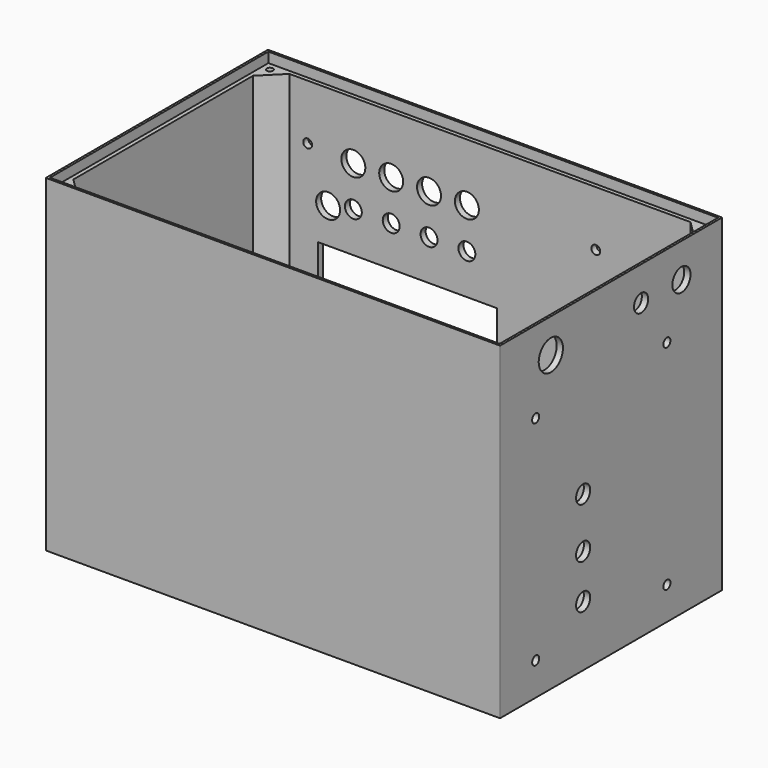
from build123d import *

# Parameters (mm, degrees)
SKETCH_W        = 180
SKETCH_H        = 110
PAD_DEPTH       = 130
THICKNESS_T     = -2.5
CHAMFER_SIZE    = 8
SKETCH001_R     = 1.25
HOLE001_DEPTH   = 16
HOLE001_TIPS_R  = 1.25
HOLE_DEPTH      = 15
HOLE_TIPS_R     = 1.25
SKETCH002_W     = 178.2
SKETCH002_H     = 108.2
POCKET_DEPTH    = 4
FILLET_R        = 0.15
POCKET001_DEPTH = 1
SKETCH004_R     = 1
POCKET002_DEPTH = 3
SKETCH005_R     = 4.5
SKETCH005_R_2   = 3.5
SKETCH005_R_3   = 6
POCKET003_DEPTH = 5
SKETCH007_R     = 1.75
SKETCH007_R_2   = 3.5
POCKET004_DEPTH = 5
SKETCH009_R     = 1.75
SKETCH009_R_2   = 4.75
SKETCH009_R_3   = 3.35
SKETCH009_W     = 71
SKETCH009_H     = 44
POCKET005_DEPTH = 5


with BuildPart() as part:
    # Sketch → Pad (new body)
    with BuildSketch(Plane.XY):
        Rectangle(SKETCH_W, SKETCH_H)
    extrude(amount=PAD_DEPTH)

    # Thickness
    thickness_openings = [part.faces().sort_by_distance(p)[0] for p in [
        (0, 0, 130),
    ]]
    offset(amount=THICKNESS_T, openings=thickness_openings, kind=Kind.INTERSECTION)

    # Chamfer
    chamfer_edges = [part.edges().sort_by_distance(p)[0] for p in [
        (-87.5, 52.5, 66.25),
        (-87.5, -52.5, 66.25),
        (87.5, 52.5, 66.25),
        (87.5, -52.5, 66.25),
    ]]
    chamfer(chamfer_edges, length=CHAMFER_SIZE)

    # Sketch001 (on Face1 of Chamfer) → Hole001 (cut)
    with BuildSketch(Plane.XY.offset(130)):
        with Locations((-86, 51)):
            Circle(SKETCH001_R)
        with Locations((86, 51)):
            Circle(SKETCH001_R)
        with Locations((86, -51)):
            Circle(SKETCH001_R)
        with Locations((-86, -51)):
            Circle(SKETCH001_R)
    extrude(amount=-HOLE001_DEPTH, mode=Mode.SUBTRACT)

    # Hole001 tips → Hole001 tip 1 section 0
    with BuildSketch(Plane.XY.offset(114), mode=Mode.PRIVATE) as hole001_tip_1_s0:
        with Locations((-86, 51)):
            Circle(HOLE001_TIPS_R)
    loft([hole001_tip_1_s0.sketch, Vertex(-86, 51, 113.248924)], mode=Mode.SUBTRACT)

    # Hole001 tips → Hole001 tip 2 section 0
    with BuildSketch(Plane.XY.offset(114), mode=Mode.PRIVATE) as hole001_tip_2_s0:
        with Locations((86, 51)):
            Circle(HOLE001_TIPS_R)
    loft([hole001_tip_2_s0.sketch, Vertex(86, 51, 113.248924)], mode=Mode.SUBTRACT)

    # Hole001 tips → Hole001 tip 3 section 0
    with BuildSketch(Plane.XY.offset(114), mode=Mode.PRIVATE) as hole001_tip_3_s0:
        with Locations((86, -51)):
            Circle(HOLE001_TIPS_R)
    loft([hole001_tip_3_s0.sketch, Vertex(86, -51, 113.248924)], mode=Mode.SUBTRACT)

    # Hole001 tips → Hole001 tip 4 section 0
    with BuildSketch(Plane.XY.offset(114), mode=Mode.PRIVATE) as hole001_tip_4_s0:
        with Locations((-86, -51)):
            Circle(HOLE001_TIPS_R)
    loft([hole001_tip_4_s0.sketch, Vertex(-86, -51, 113.248924)], mode=Mode.SUBTRACT)

    # Sketch001 (on Face1 of Chamfer) → Hole (cut)
    with BuildSketch(Plane.XY.offset(130)):
        with Locations((-86, 51)):
            Circle(SKETCH001_R)
        with Locations((86, 51)):
            Circle(SKETCH001_R)
        with Locations((86, -51)):
            Circle(SKETCH001_R)
        with Locations((-86, -51)):
            Circle(SKETCH001_R)
    extrude(amount=-HOLE_DEPTH, mode=Mode.SUBTRACT)

    # Hole tips → Hole tip 1 section 0
    with BuildSketch(Plane.XY.offset(115), mode=Mode.PRIVATE) as hole_tip_1_s0:
        with Locations((-86, 51)):
            Circle(HOLE_TIPS_R)
    loft([hole_tip_1_s0.sketch, Vertex(-86, 51, 114.248924)], mode=Mode.SUBTRACT)

    # Hole tips → Hole tip 2 section 0
    with BuildSketch(Plane.XY.offset(115), mode=Mode.PRIVATE) as hole_tip_2_s0:
        with Locations((86, 51)):
            Circle(HOLE_TIPS_R)
    loft([hole_tip_2_s0.sketch, Vertex(86, 51, 114.248924)], mode=Mode.SUBTRACT)

    # Hole tips → Hole tip 3 section 0
    with BuildSketch(Plane.XY.offset(115), mode=Mode.PRIVATE) as hole_tip_3_s0:
        with Locations((86, -51)):
            Circle(HOLE_TIPS_R)
    loft([hole_tip_3_s0.sketch, Vertex(86, -51, 114.248924)], mode=Mode.SUBTRACT)

    # Hole tips → Hole tip 4 section 0
    with BuildSketch(Plane.XY.offset(115), mode=Mode.PRIVATE) as hole_tip_4_s0:
        with Locations((-86, -51)):
            Circle(HOLE_TIPS_R)
    loft([hole_tip_4_s0.sketch, Vertex(-86, -51, 114.248924)], mode=Mode.SUBTRACT)

    # Sketch002 (on Face9 of Hole) → Pocket (cut)
    with BuildSketch(Plane.XY.offset(130)):
        Rectangle(SKETCH002_W, SKETCH002_H)
    extrude(amount=-POCKET_DEPTH, mode=Mode.SUBTRACT)

    # Fillet
    fillet_edges = [part.edges().sort_by_distance(p)[0] for p in [
        (90, -55, 65),
        (90, 55, 65),
        (-90, -55, 65),
        (-90, 55, 65),
    ]]
    fillet(fillet_edges, radius=FILLET_R)

    # Sketch003 (on Face14 of Fillet) → Pocket001 (cut)
    with BuildSketch(Plane(origin=(0, 0, 0), x_dir=(1, 0, 0), z_dir=(0, 0, -1))):
        Polygon((0, 0), (12.5, 15), (17.5, 15), (17.5, -20), (12.5, -20), (12.5, 7), (2.5, -5), (-2.5, -5), (-12.5, 7), (-12.5, -20), (-17.5, -20), (-17.5, 15), (-12.5, 15), align=None)
    extrude(amount=-POCKET001_DEPTH, mode=Mode.SUBTRACT)

    # Sketch004 (on Face41 of Pocket001) → Pocket002 (cut)
    with BuildSketch(Plane(origin=(0, 0, 1), x_dir=(1, 0, 0), z_dir=(0, 0, -1))):
        with Locations((-15, 11.5)):
            Circle(SKETCH004_R)
        with Locations((-11.5, 9)):
            Circle(SKETCH004_R)
        with Locations((-9.1, 6.25)):
            Circle(SKETCH004_R)
        with Locations((-15, 8)):
            Circle(SKETCH004_R)
        with Locations((-15, 4.5)):
            Circle(SKETCH004_R)
        with Locations((-15, 1)):
            Circle(SKETCH004_R)
        with Locations((-15, -2.5)):
            Circle(SKETCH004_R)
        with Locations((-15, -6)):
            Circle(SKETCH004_R)
        with Locations((-15, -9.5)):
            Circle(SKETCH004_R)
        with Locations((-15, -13)):
            Circle(SKETCH004_R)
        with Locations((-15, -16.5)):
            Circle(SKETCH004_R)
        with Locations((-6.7, 3.5)):
            Circle(SKETCH004_R)
        with Locations((-4.3, 0.75)):
            Circle(SKETCH004_R)
        with Locations((-1.9, -2)):
            Circle(SKETCH004_R)
        with Locations((1.9, -2)):
            Circle(SKETCH004_R)
        with Locations((4.3, 0.75)):
            Circle(SKETCH004_R)
        with Locations((6.7, 3.5)):
            Circle(SKETCH004_R)
        with Locations((11.5, 9)):
            Circle(SKETCH004_R)
        with Locations((15, 11.5)):
            Circle(SKETCH004_R)
        with Locations((9.1, 6.25)):
            Circle(SKETCH004_R)
        with Locations((15, 8)):
            Circle(SKETCH004_R)
        with Locations((15, 4.5)):
            Circle(SKETCH004_R)
        with Locations((15, 1)):
            Circle(SKETCH004_R)
        with Locations((15, -2.5)):
            Circle(SKETCH004_R)
        with Locations((15, -6)):
            Circle(SKETCH004_R)
        with Locations((15, -9.5)):
            Circle(SKETCH004_R)
        with Locations((15, -16.5)):
            Circle(SKETCH004_R)
        with Locations((15, -13)):
            Circle(SKETCH004_R)
    extrude(amount=-POCKET002_DEPTH, mode=Mode.SUBTRACT)

    # Sketch005 (on Face6 of Pocket002) → Pocket003 (cut)
    with BuildSketch(Plane.YZ.offset(90)):
        with Locations((34.85, 116.5)):
            Circle(SKETCH005_R)
        with Locations((14.85, 116.5)):
            Circle(SKETCH005_R_2)
        with Locations((-29.85, 116.5)):
            Circle(SKETCH005_R_3)
    extrude(amount=-POCKET003_DEPTH, mode=Mode.SUBTRACT)

    # Sketch007 (on Face6 of Pocket003) → Pocket004 (cut)
    with BuildSketch(Plane.YZ.offset(90)):
        with Locations((27.65, 13)):
            Circle(SKETCH007_R)
        with Locations((27.65, 97.5)):
            Circle(SKETCH007_R)
        with Locations((-37.35, 97.5)):
            Circle(SKETCH007_R)
        with Locations((-37.35, 13)):
            Circle(SKETCH007_R)
        with Locations((-13.85, 24)):
            Circle(SKETCH007_R_2)
        with Locations((-13.85, 41.5)):
            Circle(SKETCH007_R_2)
        with Locations((-13.85, 61.5)):
            Circle(SKETCH007_R_2)
    extrude(amount=-POCKET004_DEPTH, mode=Mode.SUBTRACT)

    # Sketch009 (on Face2 of Pocket004) → Pocket005 (cut)
    with BuildSketch(Plane(origin=(0, 55, 0), x_dir=(-1, 0, 0), z_dir=(0, 1, 0))):
        with Locations((72.25, 29.9)):
            Circle(SKETCH009_R)
        with Locations((-41.95, 29.9)):
            Circle(SKETCH009_R)
        with Locations((-41.95, 104.1)):
            Circle(SKETCH009_R)
        with Locations((72.25, 104.1)):
            Circle(SKETCH009_R)
        with Locations((54.15, 103)):
            Circle(SKETCH009_R_2)
        with Locations((39.15, 103)):
            Circle(SKETCH009_R_2)
        with Locations((24.15, 103)):
            Circle(SKETCH009_R_2)
        with Locations((9.15, 103)):
            Circle(SKETCH009_R_2)
        with Locations((54.15, 87)):
            Circle(SKETCH009_R_3)
        with Locations((39.15, 87)):
            Circle(SKETCH009_R_3)
        with Locations((24.15, 87)):
            Circle(SKETCH009_R_3)
        with Locations((9.15, 87)):
            Circle(SKETCH009_R_3)
        with Locations((64.15, 85)):
            Circle(SKETCH009_R_2)
        with Locations((32.65, 49)):
            Rectangle(SKETCH009_W, SKETCH009_H)
    extrude(amount=-POCKET005_DEPTH, mode=Mode.SUBTRACT)


solid = part.part
